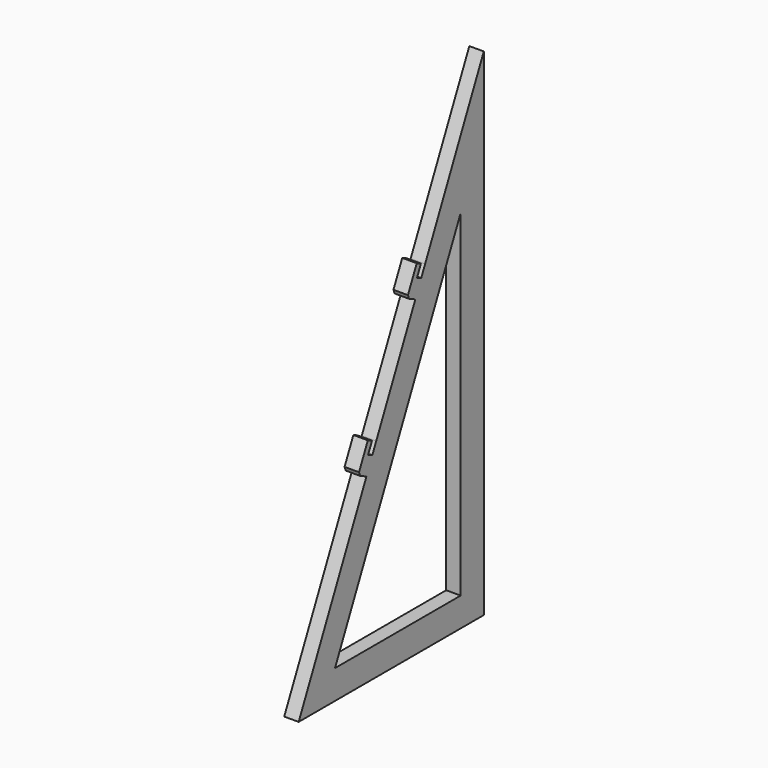
from build123d import *

# Parameters (mm, degrees)
F2_DEPTH = 2.5
F3_W     = 2.5
F3_H     = 5
F4_DEPTH = 2
F5_W     = 2.5
F5_H     = 1
F6_W     = 2.5
F6_H     = 1
F7_DEPTH = 2
F8_SIZE  = 0.5


with BuildPart() as f2:
    # F1 (on Right) → F2 (new body)
    with BuildSketch(Plane.YZ):
        Polygon((0, 0), (40, 0), (40, 85.7802768204), align=None)
        Polygon((35, 5), (7.8484278856, 5), (35, 63.2267343021), align=None, mode=Mode.SUBTRACT)
    extrude(amount=F2_DEPTH)

    # F3 (on face) → F4 (join)
    with BuildSketch(Plane(origin=(0, 0, 0), x_dir=(1, 0, 0), z_dir=(0, -0.906307787, 0.4226182617))):
        with Locations((1.25, 62.1480633261)):
            Rectangle(F3_W, F3_H)
        with Locations((1.25, 37.1480633261)):
            Rectangle(F3_W, F3_H)
    extrude(amount=F4_DEPTH)

    # F5 (on face) + F6 (on face) → F7 (cut)
    with BuildSketch(Plane(origin=(0, 27.3214521478, 58.5910432093), x_dir=(1, 0, 0), z_dir=(0, 0.4226182617, 0.906307787))):
        with Locations((1.25, -0.5)):
            Rectangle(F5_W, F5_H)
    with BuildSketch(Plane(origin=(0, 16.7559956043, 35.9333485334), x_dir=(1, 0, 0), z_dir=(0, 0.4226182617, 0.906307787))):
        with Locations((1.25, -0.5)):
            Rectangle(F6_W, F6_H)
    extrude(amount=-F7_DEPTH, mode=Mode.SUBTRACT)

    # F8
    f8_edges = [f2.edges().sort_by_distance(p)[0] for p in [
        (1.25, 12.830289, 32.247046),
        (1.25, 23.395745, 54.904741),
    ]]
    chamfer(f8_edges, length=F8_SIZE)


solid = f2.part
